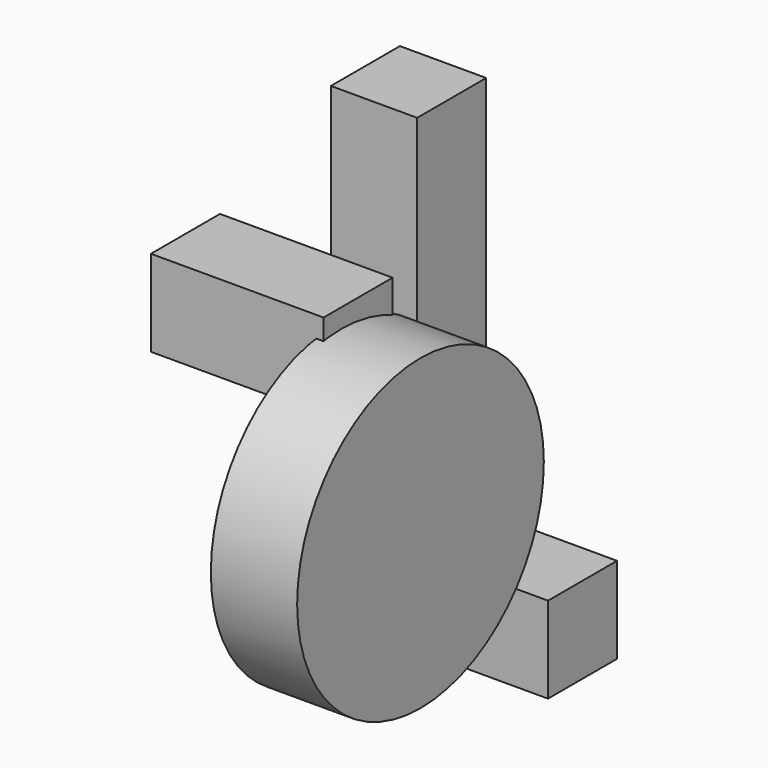
from build123d import *

# Parameters (mm, degrees)
F0_W     = 50.8
F0_H     = 25.4
F1_DEPTH = 25.4
F2_W     = 25.4
F2_H     = 25.4
F3_DEPTH = 101.6
F4_W     = 25.4
F4_H     = 25.4
F5_DEPTH = 25.4
F6_DEPTH = 25.4
F7_R     = 45.37484
F8_DEPTH = 25.4


with BuildPart() as f1:
    # F0 (on Front) → F1 (new body)
    with BuildSketch(Plane.XZ):
        with Locations((-23.247538, 49.035968)):
            Rectangle(F0_W, F0_H)
    extrude(amount=F1_DEPTH)


with BuildPart() as f3:
    # F2 (on Top) → F3 (new body)
    with BuildSketch(Plane.XY):
        with Locations((-8.00392, 18.561696)):
            Rectangle(F2_W, F2_H)
    extrude(amount=F3_DEPTH)

    # F2 (on Top) → F6 (join)
    with BuildSketch(Plane.XY):
        with Locations((-8.00392, 18.561696)):
            Rectangle(F2_W, F2_H)
    extrude(amount=F6_DEPTH)


with BuildPart() as f5:
    # F4 (on Right) → F5 (new body)
    with BuildSketch(Plane.YZ):
        with Locations((40.823363, -38.518067)):
            Rectangle(F4_W, F4_H)
    extrude(amount=F5_DEPTH)


with BuildPart() as f8:
    # F7 (on Right) → F8 (new body)
    with BuildSketch(Plane.YZ):
        with Locations((-18.796373, 10.754699)):
            Circle(F7_R)
    extrude(amount=F8_DEPTH)


solid = Compound([f1.part, f3.part, f5.part, f8.part])
